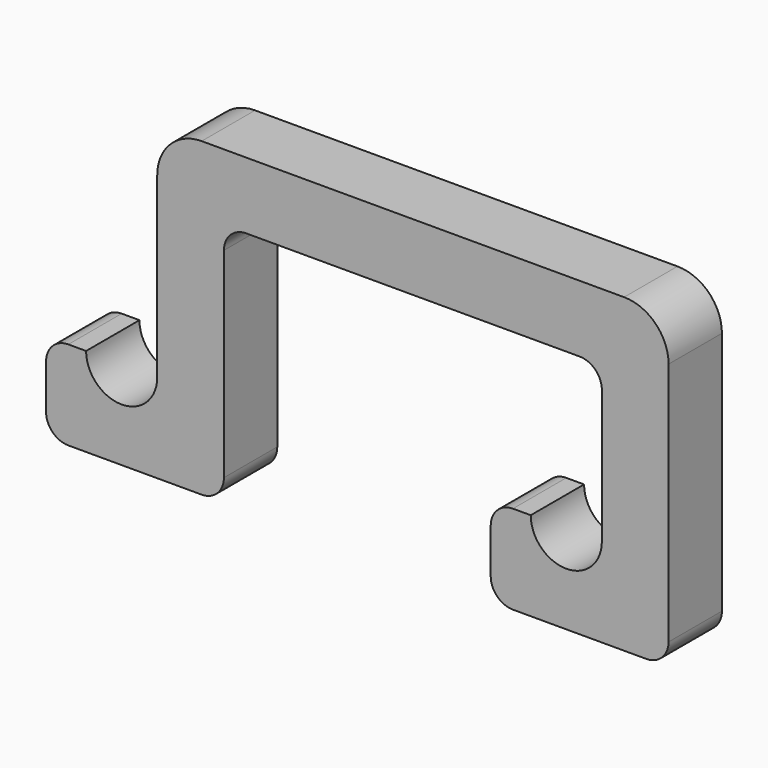
from build123d import *

# Parameters (mm, degrees)
F1_DEPTH = 15
F2_R     = 8
F3_DEPTH = 15.001
F4_R     = 10
F5_R     = 5
F6_R     = 5
F7_R     = 5


with BuildPart() as f1:
    # F0 (on Front) → F1 (new body)
    with BuildSketch(Plane.XZ):
        Polygon((50.351163, 50), (-64.648837, 50), (-64.648837, 0), (-89.648837, 0), (-89.648837, -20), (-49.648837, -20), (-49.648837, 35), (35.351163, 35), (35.351163, 0), (10.351163, 0), (10.351163, -20), (50.351163, -20), align=None)
    extrude(amount=F1_DEPTH)

    # F2 (on face) → F3 (cut, through all)
    with BuildSketch(Plane.XZ.offset(15)):
        with Locations((-72.648837, 0)):
            Circle(F2_R)
        with Locations((27.351163, 0)):
            Circle(F2_R)
    extrude(amount=-F3_DEPTH, mode=Mode.SUBTRACT)

    # F4
    f4_edges = [f1.edges().sort_by_distance(p)[0] for p in [
        (-64.648837, -7.5, 50),
        (50.351163, -7.5, 50),
    ]]
    fillet(f4_edges, radius=F4_R)

    # F5
    f5_edges = [f1.edges().sort_by_distance(p)[0] for p in [
        (-89.648837, -7.5, 0),
        (10.351163, -7.5, 0),
        (-49.648837, -7.5, 35),
        (35.351163, -7.5, 35),
    ]]
    fillet(f5_edges, radius=F5_R)

    # F6
    f6_edges = [f1.edges().sort_by_distance(p)[0] for p in [
        (-89.648837, -7.5, -20),
        (10.351163, -7.5, -20),
    ]]
    fillet(f6_edges, radius=F6_R)

    # F7
    f7_edges = [f1.edges().sort_by_distance(p)[0] for p in [
        (-49.648837, -7.5, -20),
        (50.351163, -7.5, -20),
    ]]
    fillet(f7_edges, radius=F7_R)


solid = f1.part
